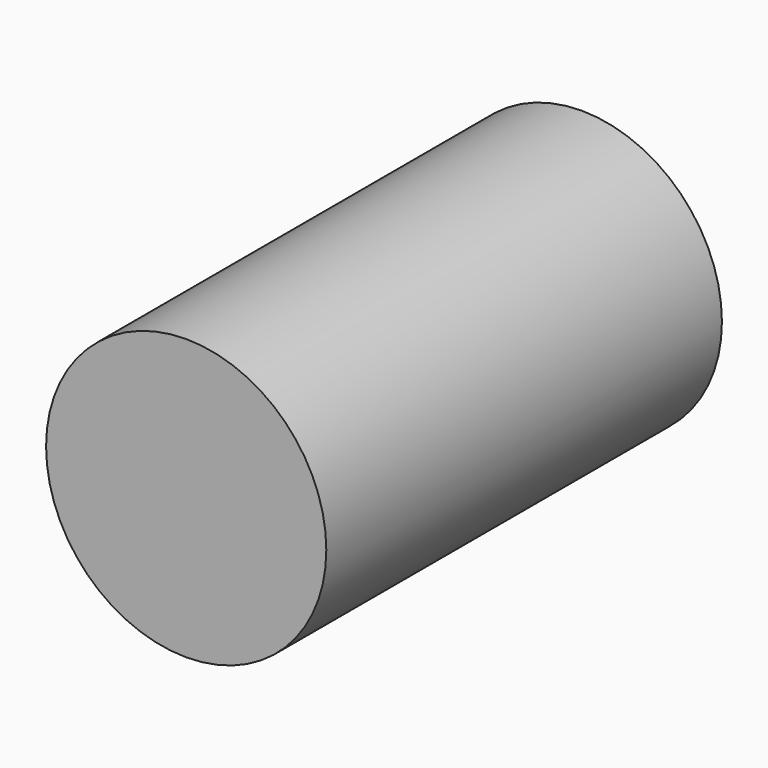
from build123d import *

# Parameters (mm, degrees)
F0_R     = 8.5
F1_DEPTH = 30
F2_R     = 13.323811
F3_DEPTH = 39.4


with BuildPart() as f1:
    # F0 (on Front) → F1 (new body, symmetric)
    with BuildSketch(Plane.XZ):
        Circle(F0_R)
    extrude(amount=F1_DEPTH, both=True)

    # F2 (on Front) → F3 (cut)
    with BuildSketch(Plane.XZ):
        Circle(F2_R)
    extrude(amount=-F3_DEPTH, mode=Mode.SUBTRACT)


solid = f1.part
